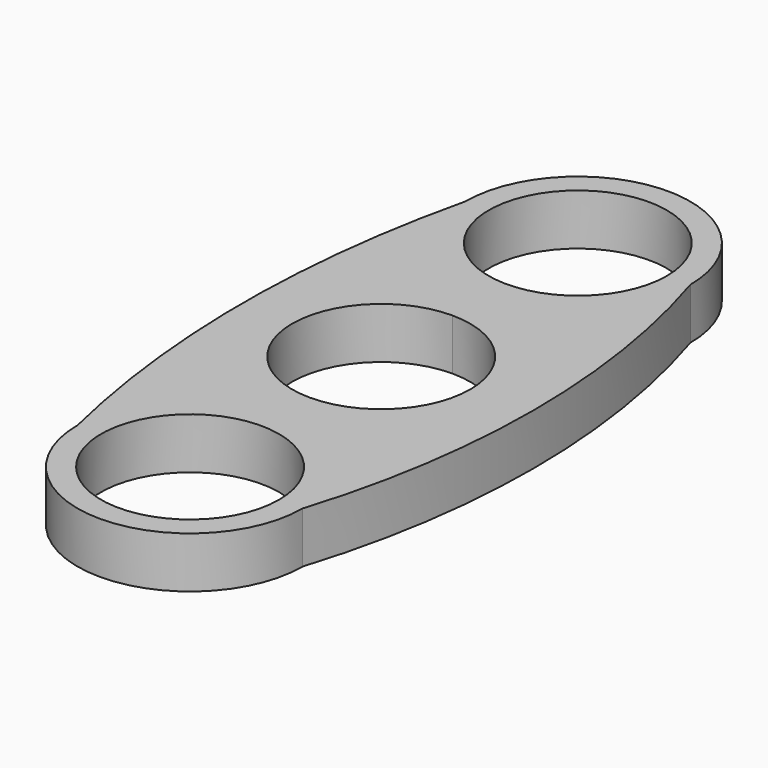
from build123d import *

# Parameters (mm, degrees)
F0_R     = 11.049
F1_DEPTH = 6.35


with BuildPart() as f1:
    # F0 (on Top) → F1 (new body)
    with BuildSketch(Plane.XY):
        with BuildLine():
            ThreePointArc((0, 16.530267), (-9.878282, 20.621985), (-13.97, 30.500267))
            ThreePointArc((-13.97, 30.500267), (-17.499453, 0.425585), (-13.97, -29.649097))
            ThreePointArc((-13.97, -29.649097), (-9.878282, -19.770816), (0, -15.679097))
            Line((0, -15.679097), (0, -13.97))
            ThreePointArc((0, -13.97), (-13.97, 0), (0, 13.97))
            Line((0, 13.97), (0, 16.530267))
        make_face()
        with BuildLine():
            ThreePointArc((13.97, 30.500267), (10.194271, 40.052111), (0.908048, 44.440724))
            ThreePointArc((0.908048, 44.440724), (0, 44.45), (-0.908048, 44.440724))
            ThreePointArc((-0.908048, 44.440724), (-10.194271, 40.052111), (-13.97, 30.500267))
            ThreePointArc((-13.97, 30.500267), (-9.878282, 20.621985), (0, 16.530267))
            ThreePointArc((0, 16.530267), (9.878282, 20.621985), (13.97, 30.500267))
        make_face()
        with Locations((0, 30.500267)):
            Circle(F0_R, mode=Mode.SUBTRACT)
        with BuildLine():
            ThreePointArc((13.97, -29.649097), (18.582887, 0.425585), (13.97, 30.500267))
            ThreePointArc((13.97, 30.500267), (9.878282, 20.621985), (0, 16.530267))
            Line((0, 16.530267), (0, 13.97))
            ThreePointArc((0, 13.97), (9.878282, 9.878282), (13.97, 0))
            ThreePointArc((13.97, 0), (9.878282, -9.878282), (0, -13.97))
            Line((0, -13.97), (0, -15.679097))
            ThreePointArc((0, -15.679097), (9.878282, -19.770816), (13.97, -29.649097))
        make_face()
        with BuildLine():
            Line((0, 11.049), (0, 13.97))
            ThreePointArc((0, 13.97), (-13.97, 0), (0, -13.97))
            Line((0, -13.97), (0, -11.049))
            ThreePointArc((0, -11.049), (-11.049, 0), (0, 11.049))
        make_face()
        with BuildLine():
            ThreePointArc((13.97, 0), (9.878282, 9.878282), (0, 13.97))
            Line((0, 13.97), (0, 11.049))
            ThreePointArc((0, 11.049), (7.812823, 7.812823), (11.049, 0))
            ThreePointArc((11.049, 0), (7.812823, -7.812823), (0, -11.049))
            Line((0, -11.049), (0, -13.97))
            ThreePointArc((0, -13.97), (9.878282, -9.878282), (13.97, 0))
        make_face()
        with BuildLine():
            ThreePointArc((-13.97, -29.649097), (0, -43.619097), (13.97, -29.649097))
            ThreePointArc((13.97, -29.649097), (9.878282, -19.770816), (0, -15.679097))
            ThreePointArc((0, -15.679097), (-9.878282, -19.770816), (-13.97, -29.649097))
        make_face()
        with Locations((0, -29.649097)):
            Circle(F0_R, mode=Mode.SUBTRACT)
    extrude(amount=F1_DEPTH)


solid = f1.part
